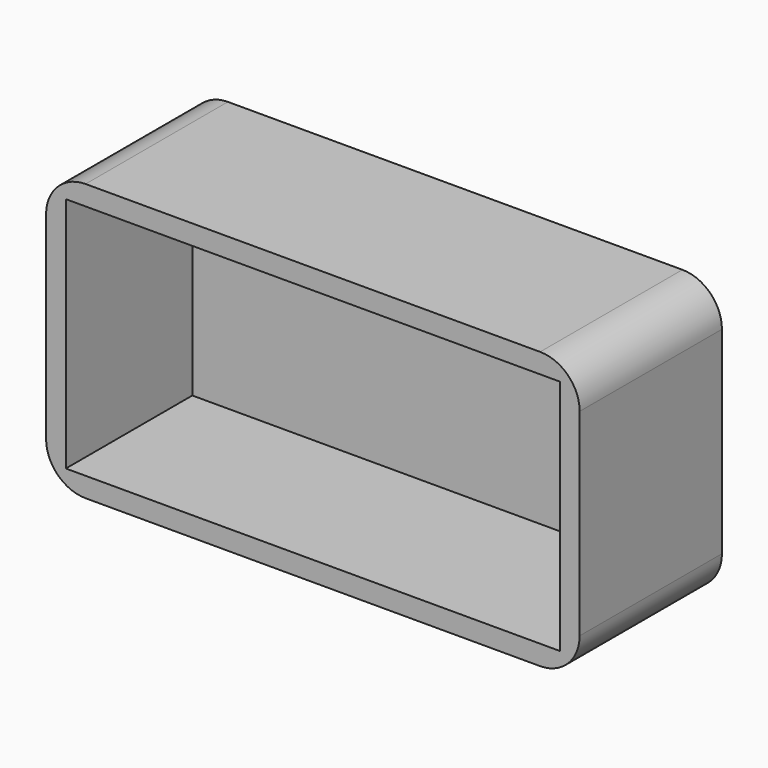
from build123d import *

# Parameters (mm, degrees)
F0_W     = 270
F0_H     = 140
F1_DEPTH = 90
F2_W     = 250
F2_H     = 120
F3_DEPTH = 80
F4_R     = 20


with BuildPart() as f1:
    # F0 (on Front) → F1 (new body)
    with BuildSketch(Plane.XZ):
        Rectangle(F0_W, F0_H)
    extrude(amount=F1_DEPTH)

    # F2 (on face) → F3 (cut)
    with BuildSketch(Plane.XZ.offset(90)):
        Rectangle(F2_W, F2_H)
    extrude(amount=-F3_DEPTH, mode=Mode.SUBTRACT)

    # F4
    f4_edges = [f1.edges().sort_by_distance(p)[0] for p in [
        (-135, -45, 70),
        (135, -45, 70),
        (-135, -45, -70),
        (135, -45, -70),
    ]]
    fillet(f4_edges, radius=F4_R)


solid = f1.part
